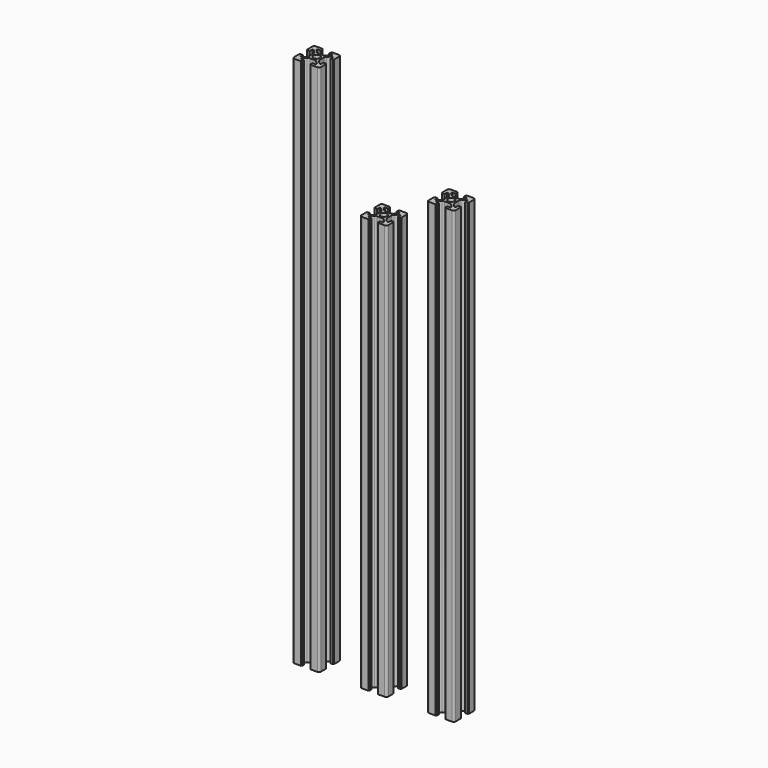
from build123d import *

# Parameters (mm, degrees)
F1_DEPTH = 334
F3_DEPTH = 308
F5_DEPTH = 395


with BuildPart() as f1:
    # F0 (on Top) → F1 (new body)
    with BuildSketch(Plane.XY):
        with BuildLine():
            ThreePointArc((0, -2.5), (-1.767767, -1.767767), (-2.5, 0))
            Line((-2.5, 0), (-3.9, 0))
            Line((-3.9, 0), (-3.9, -2.050253))
            ThreePointArc((-3.9, -2.050253), (-4.052241, -2.815619), (-4.485786, -3.464466))
            Line((-4.485786, -3.464466), (-6.6, -5.57868))
            Line((-6.6, -5.57868), (-7.7, -5.57868))
            Line((-7.7, -5.57868), (-7.7, -3.17868))
            Line((-7.7, -3.17868), (-9.5, -3.17868))
            Line((-9.5, -3.17868), (-9.5, -3.67868))
            Line((-9.5, -3.67868), (-10, -3.67868))
            Line((-10, -3.67868), (-10, -8.5))
            ThreePointArc((-10, -8.5), (-9.56066, -9.56066), (-8.5, -10))
            Line((-8.5, -10), (-3.6, -10))
            Line((-3.6, -10), (-3.6, -9.5))
            Line((-3.6, -9.5), (-3.1, -9.5))
            Line((-3.1, -9.5), (-3.1, -7.7))
            Line((-3.1, -7.7), (-5.5, -7.7))
            Line((-5.5, -7.7), (-5.5, -6.6))
            Line((-5.5, -6.6), (-3.385786, -4.485786))
            ThreePointArc((-3.385786, -4.485786), (-2.73694, -4.052241), (-1.971573, -3.9))
            Line((-1.971573, -3.9), (0, -3.9))
            Line((0, -3.9), (0, -2.5))
        make_face()
        with BuildLine():
            Line((-3.9, 0), (-2.5, 0))
            ThreePointArc((-2.5, 0), (-1.767767, 1.767767), (0, 2.5))
            Line((0, 2.5), (0, 3.9))
            Line((0, 3.9), (-1.971573, 3.9))
            ThreePointArc((-1.971573, 3.9), (-2.73694, 4.052241), (-3.385786, 4.485786))
            Line((-3.385786, 4.485786), (-5.5, 6.6))
            Line((-5.5, 6.6), (-5.5, 7.7))
            Line((-5.5, 7.7), (-3.1, 7.7))
            Line((-3.1, 7.7), (-3.1, 9.5))
            Line((-3.1, 9.5), (-3.6, 9.5))
            Line((-3.6, 9.5), (-3.6, 10))
            Line((-3.6, 10), (-8.5, 10))
            ThreePointArc((-8.5, 10), (-9.56066, 9.56066), (-10, 8.5))
            Line((-10, 8.5), (-10, 3.67868))
            Line((-10, 3.67868), (-9.5, 3.67868))
            Line((-9.5, 3.67868), (-9.5, 3.17868))
            Line((-9.5, 3.17868), (-7.7, 3.17868))
            Line((-7.7, 3.17868), (-7.7, 5.57868))
            Line((-7.7, 5.57868), (-6.6, 5.57868))
            Line((-6.6, 5.57868), (-4.485786, 3.464466))
            ThreePointArc((-4.485786, 3.464466), (-4.052241, 2.815619), (-3.9, 2.050253))
            Line((-3.9, 2.050253), (-3.9, 0))
        make_face()
        with BuildLine():
            Line((0, 3.9), (0, 2.5))
            ThreePointArc((0, 2.5), (1.767767, 1.767767), (2.5, 0))
            Line((2.5, 0), (3.9, 0))
            Line((3.9, 0), (3.9, 2.050253))
            ThreePointArc((3.9, 2.050253), (4.052241, 2.815619), (4.485786, 3.464466))
            Line((4.485786, 3.464466), (6.6, 5.57868))
            Line((6.6, 5.57868), (7.7, 5.57868))
            Line((7.7, 5.57868), (7.7, 3.17868))
            Line((7.7, 3.17868), (9.5, 3.17868))
            Line((9.5, 3.17868), (9.5, 3.67868))
            Line((9.5, 3.67868), (10, 3.67868))
            Line((10, 3.67868), (10, 8.5))
            ThreePointArc((10, 8.5), (9.56066, 9.56066), (8.5, 10))
            Line((8.5, 10), (3.6, 10))
            Line((3.6, 10), (3.6, 9.5))
            Line((3.6, 9.5), (3.1, 9.5))
            Line((3.1, 9.5), (3.1, 7.7))
            Line((3.1, 7.7), (5.5, 7.7))
            Line((5.5, 7.7), (5.5, 6.6))
            Line((5.5, 6.6), (3.385786, 4.485786))
            ThreePointArc((3.385786, 4.485786), (2.73694, 4.052241), (1.971573, 3.9))
            Line((1.971573, 3.9), (0, 3.9))
        make_face()
        with BuildLine():
            ThreePointArc((2.5, 0), (1.767767, -1.767767), (0, -2.5))
            Line((0, -2.5), (0, -3.9))
            Line((0, -3.9), (1.971573, -3.9))
            ThreePointArc((1.971573, -3.9), (2.73694, -4.052241), (3.385786, -4.485786))
            Line((3.385786, -4.485786), (5.5, -6.6))
            Line((5.5, -6.6), (5.5, -7.7))
            Line((5.5, -7.7), (3.1, -7.7))
            Line((3.1, -7.7), (3.1, -9.5))
            Line((3.1, -9.5), (3.6, -9.5))
            Line((3.6, -9.5), (3.6, -10))
            Line((3.6, -10), (8.5, -10))
            ThreePointArc((8.5, -10), (9.56066, -9.56066), (10, -8.5))
            Line((10, -8.5), (10, -3.67868))
            Line((10, -3.67868), (9.5, -3.67868))
            Line((9.5, -3.67868), (9.5, -3.17868))
            Line((9.5, -3.17868), (7.7, -3.17868))
            Line((7.7, -3.17868), (7.7, -5.57868))
            Line((7.7, -5.57868), (6.6, -5.57868))
            Line((6.6, -5.57868), (4.485786, -3.464466))
            ThreePointArc((4.485786, -3.464466), (4.052241, -2.815619), (3.9, -2.050253))
            Line((3.9, -2.050253), (3.9, 0))
            Line((3.9, 0), (2.5, 0))
        make_face()
    extrude(amount=F1_DEPTH)


with BuildPart() as f1_1:
    # F2: moved
    add(f1.part.moved(Location((100, 0, 0))))


with BuildPart() as f3:
    # F0 (on Top) → F3 (new body)
    with BuildSketch(Plane.XY):
        with BuildLine():
            ThreePointArc((0, -2.5), (-1.767767, -1.767767), (-2.5, 0))
            Line((-2.5, 0), (-3.9, 0))
            Line((-3.9, 0), (-3.9, -2.050253))
            ThreePointArc((-3.9, -2.050253), (-4.052241, -2.815619), (-4.485786, -3.464466))
            Line((-4.485786, -3.464466), (-6.6, -5.57868))
            Line((-6.6, -5.57868), (-7.7, -5.57868))
            Line((-7.7, -5.57868), (-7.7, -3.17868))
            Line((-7.7, -3.17868), (-9.5, -3.17868))
            Line((-9.5, -3.17868), (-9.5, -3.67868))
            Line((-9.5, -3.67868), (-10, -3.67868))
            Line((-10, -3.67868), (-10, -8.5))
            ThreePointArc((-10, -8.5), (-9.56066, -9.56066), (-8.5, -10))
            Line((-8.5, -10), (-3.6, -10))
            Line((-3.6, -10), (-3.6, -9.5))
            Line((-3.6, -9.5), (-3.1, -9.5))
            Line((-3.1, -9.5), (-3.1, -7.7))
            Line((-3.1, -7.7), (-5.5, -7.7))
            Line((-5.5, -7.7), (-5.5, -6.6))
            Line((-5.5, -6.6), (-3.385786, -4.485786))
            ThreePointArc((-3.385786, -4.485786), (-2.73694, -4.052241), (-1.971573, -3.9))
            Line((-1.971573, -3.9), (0, -3.9))
            Line((0, -3.9), (0, -2.5))
        make_face()
        with BuildLine():
            Line((-3.9, 0), (-2.5, 0))
            ThreePointArc((-2.5, 0), (-1.767767, 1.767767), (0, 2.5))
            Line((0, 2.5), (0, 3.9))
            Line((0, 3.9), (-1.971573, 3.9))
            ThreePointArc((-1.971573, 3.9), (-2.73694, 4.052241), (-3.385786, 4.485786))
            Line((-3.385786, 4.485786), (-5.5, 6.6))
            Line((-5.5, 6.6), (-5.5, 7.7))
            Line((-5.5, 7.7), (-3.1, 7.7))
            Line((-3.1, 7.7), (-3.1, 9.5))
            Line((-3.1, 9.5), (-3.6, 9.5))
            Line((-3.6, 9.5), (-3.6, 10))
            Line((-3.6, 10), (-8.5, 10))
            ThreePointArc((-8.5, 10), (-9.56066, 9.56066), (-10, 8.5))
            Line((-10, 8.5), (-10, 3.67868))
            Line((-10, 3.67868), (-9.5, 3.67868))
            Line((-9.5, 3.67868), (-9.5, 3.17868))
            Line((-9.5, 3.17868), (-7.7, 3.17868))
            Line((-7.7, 3.17868), (-7.7, 5.57868))
            Line((-7.7, 5.57868), (-6.6, 5.57868))
            Line((-6.6, 5.57868), (-4.485786, 3.464466))
            ThreePointArc((-4.485786, 3.464466), (-4.052241, 2.815619), (-3.9, 2.050253))
            Line((-3.9, 2.050253), (-3.9, 0))
        make_face()
        with BuildLine():
            Line((0, 3.9), (0, 2.5))
            ThreePointArc((0, 2.5), (1.767767, 1.767767), (2.5, 0))
            Line((2.5, 0), (3.9, 0))
            Line((3.9, 0), (3.9, 2.050253))
            ThreePointArc((3.9, 2.050253), (4.052241, 2.815619), (4.485786, 3.464466))
            Line((4.485786, 3.464466), (6.6, 5.57868))
            Line((6.6, 5.57868), (7.7, 5.57868))
            Line((7.7, 5.57868), (7.7, 3.17868))
            Line((7.7, 3.17868), (9.5, 3.17868))
            Line((9.5, 3.17868), (9.5, 3.67868))
            Line((9.5, 3.67868), (10, 3.67868))
            Line((10, 3.67868), (10, 8.5))
            ThreePointArc((10, 8.5), (9.56066, 9.56066), (8.5, 10))
            Line((8.5, 10), (3.6, 10))
            Line((3.6, 10), (3.6, 9.5))
            Line((3.6, 9.5), (3.1, 9.5))
            Line((3.1, 9.5), (3.1, 7.7))
            Line((3.1, 7.7), (5.5, 7.7))
            Line((5.5, 7.7), (5.5, 6.6))
            Line((5.5, 6.6), (3.385786, 4.485786))
            ThreePointArc((3.385786, 4.485786), (2.73694, 4.052241), (1.971573, 3.9))
            Line((1.971573, 3.9), (0, 3.9))
        make_face()
        with BuildLine():
            ThreePointArc((2.5, 0), (1.767767, -1.767767), (0, -2.5))
            Line((0, -2.5), (0, -3.9))
            Line((0, -3.9), (1.971573, -3.9))
            ThreePointArc((1.971573, -3.9), (2.73694, -4.052241), (3.385786, -4.485786))
            Line((3.385786, -4.485786), (5.5, -6.6))
            Line((5.5, -6.6), (5.5, -7.7))
            Line((5.5, -7.7), (3.1, -7.7))
            Line((3.1, -7.7), (3.1, -9.5))
            Line((3.1, -9.5), (3.6, -9.5))
            Line((3.6, -9.5), (3.6, -10))
            Line((3.6, -10), (8.5, -10))
            ThreePointArc((8.5, -10), (9.56066, -9.56066), (10, -8.5))
            Line((10, -8.5), (10, -3.67868))
            Line((10, -3.67868), (9.5, -3.67868))
            Line((9.5, -3.67868), (9.5, -3.17868))
            Line((9.5, -3.17868), (7.7, -3.17868))
            Line((7.7, -3.17868), (7.7, -5.57868))
            Line((7.7, -5.57868), (6.6, -5.57868))
            Line((6.6, -5.57868), (4.485786, -3.464466))
            ThreePointArc((4.485786, -3.464466), (4.052241, -2.815619), (3.9, -2.050253))
            Line((3.9, -2.050253), (3.9, 0))
            Line((3.9, 0), (2.5, 0))
        make_face()
    extrude(amount=F3_DEPTH)


with BuildPart() as f3_1:
    # F4: moved
    add(f3.part.moved(Location((50, 0, 0))))


with BuildPart() as f5:
    # F0 (on Top) → F5 (new body)
    with BuildSketch(Plane.XY):
        with BuildLine():
            ThreePointArc((0, -2.5), (-1.767767, -1.767767), (-2.5, 0))
            Line((-2.5, 0), (-3.9, 0))
            Line((-3.9, 0), (-3.9, -2.050253))
            ThreePointArc((-3.9, -2.050253), (-4.052241, -2.815619), (-4.485786, -3.464466))
            Line((-4.485786, -3.464466), (-6.6, -5.57868))
            Line((-6.6, -5.57868), (-7.7, -5.57868))
            Line((-7.7, -5.57868), (-7.7, -3.17868))
            Line((-7.7, -3.17868), (-9.5, -3.17868))
            Line((-9.5, -3.17868), (-9.5, -3.67868))
            Line((-9.5, -3.67868), (-10, -3.67868))
            Line((-10, -3.67868), (-10, -8.5))
            ThreePointArc((-10, -8.5), (-9.56066, -9.56066), (-8.5, -10))
            Line((-8.5, -10), (-3.6, -10))
            Line((-3.6, -10), (-3.6, -9.5))
            Line((-3.6, -9.5), (-3.1, -9.5))
            Line((-3.1, -9.5), (-3.1, -7.7))
            Line((-3.1, -7.7), (-5.5, -7.7))
            Line((-5.5, -7.7), (-5.5, -6.6))
            Line((-5.5, -6.6), (-3.385786, -4.485786))
            ThreePointArc((-3.385786, -4.485786), (-2.73694, -4.052241), (-1.971573, -3.9))
            Line((-1.971573, -3.9), (0, -3.9))
            Line((0, -3.9), (0, -2.5))
        make_face()
        with BuildLine():
            Line((-3.9, 0), (-2.5, 0))
            ThreePointArc((-2.5, 0), (-1.767767, 1.767767), (0, 2.5))
            Line((0, 2.5), (0, 3.9))
            Line((0, 3.9), (-1.971573, 3.9))
            ThreePointArc((-1.971573, 3.9), (-2.73694, 4.052241), (-3.385786, 4.485786))
            Line((-3.385786, 4.485786), (-5.5, 6.6))
            Line((-5.5, 6.6), (-5.5, 7.7))
            Line((-5.5, 7.7), (-3.1, 7.7))
            Line((-3.1, 7.7), (-3.1, 9.5))
            Line((-3.1, 9.5), (-3.6, 9.5))
            Line((-3.6, 9.5), (-3.6, 10))
            Line((-3.6, 10), (-8.5, 10))
            ThreePointArc((-8.5, 10), (-9.56066, 9.56066), (-10, 8.5))
            Line((-10, 8.5), (-10, 3.67868))
            Line((-10, 3.67868), (-9.5, 3.67868))
            Line((-9.5, 3.67868), (-9.5, 3.17868))
            Line((-9.5, 3.17868), (-7.7, 3.17868))
            Line((-7.7, 3.17868), (-7.7, 5.57868))
            Line((-7.7, 5.57868), (-6.6, 5.57868))
            Line((-6.6, 5.57868), (-4.485786, 3.464466))
            ThreePointArc((-4.485786, 3.464466), (-4.052241, 2.815619), (-3.9, 2.050253))
            Line((-3.9, 2.050253), (-3.9, 0))
        make_face()
        with BuildLine():
            Line((0, 3.9), (0, 2.5))
            ThreePointArc((0, 2.5), (1.767767, 1.767767), (2.5, 0))
            Line((2.5, 0), (3.9, 0))
            Line((3.9, 0), (3.9, 2.050253))
            ThreePointArc((3.9, 2.050253), (4.052241, 2.815619), (4.485786, 3.464466))
            Line((4.485786, 3.464466), (6.6, 5.57868))
            Line((6.6, 5.57868), (7.7, 5.57868))
            Line((7.7, 5.57868), (7.7, 3.17868))
            Line((7.7, 3.17868), (9.5, 3.17868))
            Line((9.5, 3.17868), (9.5, 3.67868))
            Line((9.5, 3.67868), (10, 3.67868))
            Line((10, 3.67868), (10, 8.5))
            ThreePointArc((10, 8.5), (9.56066, 9.56066), (8.5, 10))
            Line((8.5, 10), (3.6, 10))
            Line((3.6, 10), (3.6, 9.5))
            Line((3.6, 9.5), (3.1, 9.5))
            Line((3.1, 9.5), (3.1, 7.7))
            Line((3.1, 7.7), (5.5, 7.7))
            Line((5.5, 7.7), (5.5, 6.6))
            Line((5.5, 6.6), (3.385786, 4.485786))
            ThreePointArc((3.385786, 4.485786), (2.73694, 4.052241), (1.971573, 3.9))
            Line((1.971573, 3.9), (0, 3.9))
        make_face()
        with BuildLine():
            ThreePointArc((2.5, 0), (1.767767, -1.767767), (0, -2.5))
            Line((0, -2.5), (0, -3.9))
            Line((0, -3.9), (1.971573, -3.9))
            ThreePointArc((1.971573, -3.9), (2.73694, -4.052241), (3.385786, -4.485786))
            Line((3.385786, -4.485786), (5.5, -6.6))
            Line((5.5, -6.6), (5.5, -7.7))
            Line((5.5, -7.7), (3.1, -7.7))
            Line((3.1, -7.7), (3.1, -9.5))
            Line((3.1, -9.5), (3.6, -9.5))
            Line((3.6, -9.5), (3.6, -10))
            Line((3.6, -10), (8.5, -10))
            ThreePointArc((8.5, -10), (9.56066, -9.56066), (10, -8.5))
            Line((10, -8.5), (10, -3.67868))
            Line((10, -3.67868), (9.5, -3.67868))
            Line((9.5, -3.67868), (9.5, -3.17868))
            Line((9.5, -3.17868), (7.7, -3.17868))
            Line((7.7, -3.17868), (7.7, -5.57868))
            Line((7.7, -5.57868), (6.6, -5.57868))
            Line((6.6, -5.57868), (4.485786, -3.464466))
            ThreePointArc((4.485786, -3.464466), (4.052241, -2.815619), (3.9, -2.050253))
            Line((3.9, -2.050253), (3.9, 0))
            Line((3.9, 0), (2.5, 0))
        make_face()
    extrude(amount=F5_DEPTH)


solid = Compound([f1_1.part, f3_1.part, f5.part])
